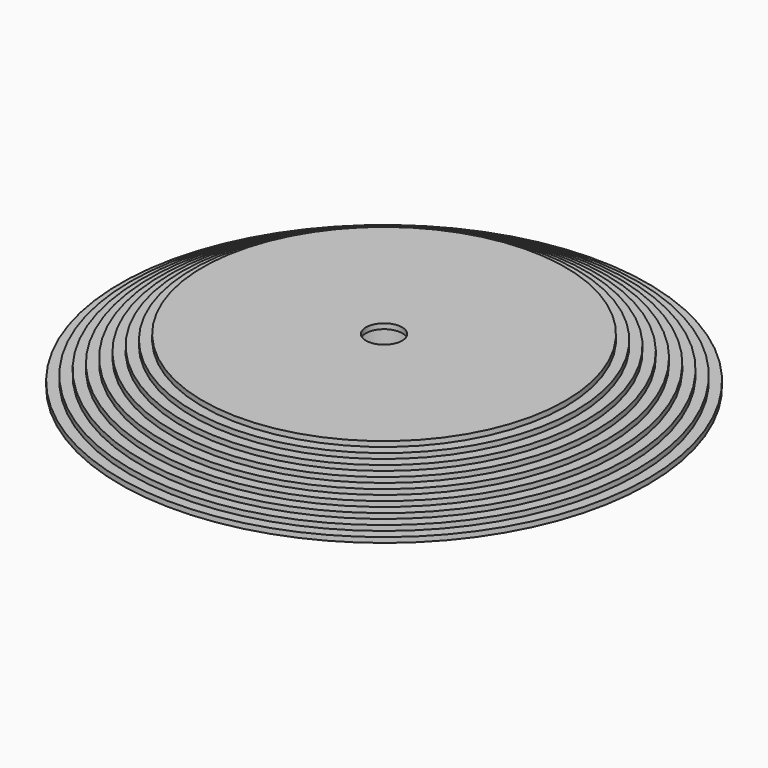
from build123d import *

# Parameters (mm, degrees)
F2_R     = 3.5
F3_DEPTH = 9.001
F4_R     = 5.75
F5_DEPTH = 8


with BuildPart() as f1:
    # F0 (on Front) → F1 (revolve)
    with BuildSketch(Plane.XZ):
        Polygon((0, 9), (0, 0), (51, 0), (51, 1), (49, 1), (49, 2), (47, 2), (47, 3), (45, 3), (45, 4), (43, 4), (43, 5), (41, 5), (41, 6), (39, 6), (39, 7), (37, 7), (37, 8), (35, 8), (35, 9), align=None)
    revolve(axis=Axis((0, 0, 4.5), (0, 0, 1)))

    # F2 (on face) → F3 (cut, through all)
    with BuildSketch(Plane.XY.offset(9)):
        Circle(F2_R)
    extrude(amount=-F3_DEPTH, mode=Mode.SUBTRACT)

    # F4 (on face) → F5 (cut)
    with BuildSketch(Plane(origin=(0, 0, 0), x_dir=(1, 0, 0), z_dir=(0, 0, -1))):
        Circle(F4_R)
    extrude(amount=-F5_DEPTH, mode=Mode.SUBTRACT)


solid = f1.part
